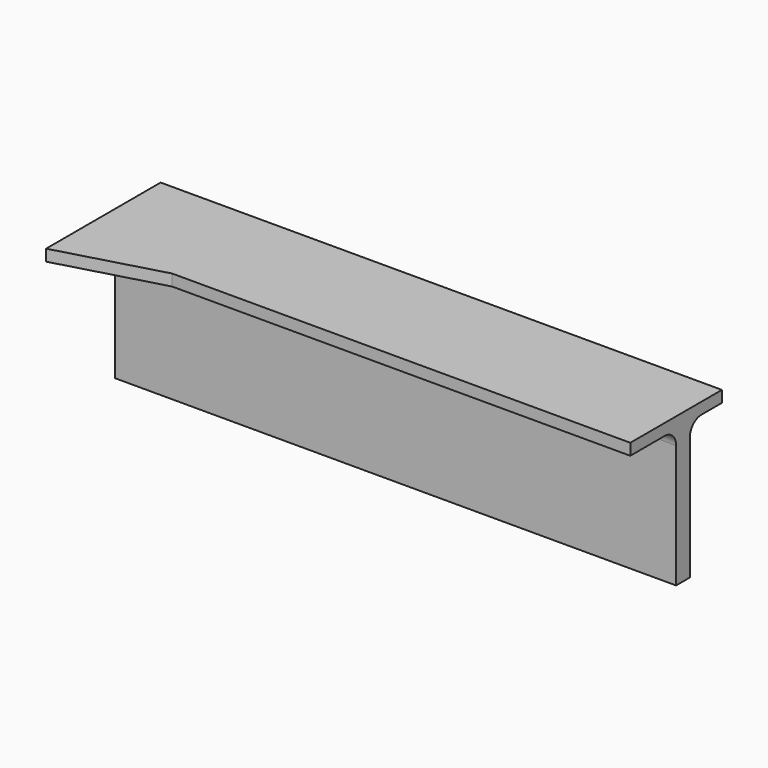
from build123d import *

# Parameters (mm, degrees)
F0_W     = 80
F0_H     = 20
F1_DEPTH = 2
F2_W     = 98
F2_H     = 3
F3_DEPTH = 24
F4_R     = 2.5


with BuildPart() as f1:
    # F0 (on Top) → F1 (new body)
    with BuildSketch(Plane.XY):
        with Locations((40, 10)):
            Rectangle(F0_W, F0_H)
        Polygon((-18, -5), (0, 0), (0, 20), (-18, 20), align=None)
    extrude(amount=F1_DEPTH)

    # F2 (on face) → F3 (join)
    with BuildSketch(Plane(origin=(0, 0, 0), x_dir=(1, 0, 0), z_dir=(0, 0, -1))):
        with Locations((31, -11.5)):
            Rectangle(F2_W, F2_H)
    extrude(amount=F3_DEPTH)

    # F4
    f4_edges = [f1.edges().sort_by_distance(p)[0] for p in [
        (31, 10, 0),
        (31, 13, 0),
    ]]
    fillet(f4_edges, radius=F4_R)


solid = f1.part
